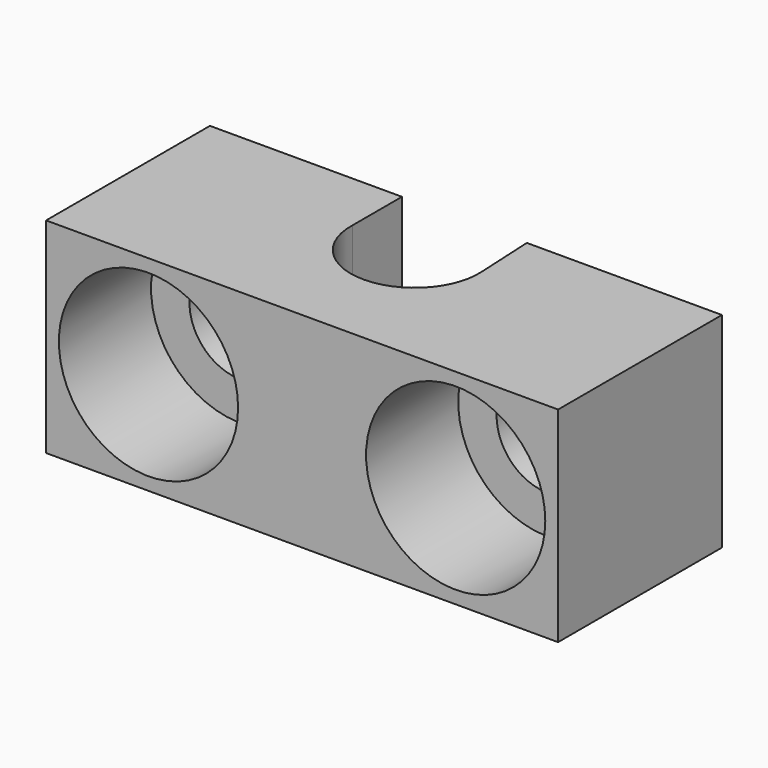
from build123d import *

# Parameters (mm, degrees)
F1_DEPTH = 8
F2_R     = 3.5
F3_DEPTH = 4.5
F4_R     = 2
F5_R     = 2
F6_DEPTH = 25


with BuildPart() as f1:
    # F0 (on Top) → F1 (new body)
    with BuildSketch(Plane.XY):
        with BuildLine():
            Line((-2.498805, 8), (-10, 8))
            Line((-10, 8), (-10, 0))
            Line((-10, 0), (10, 0))
            Line((10, 0), (10, 8))
            Line((10, 8), (2.379432, 8))
            Line((2.379432, 8), (2.496949, 5.623472))
            ThreePointArc((2.496949, 5.623472), (0.023112, 3.000107), (-2.498805, 5.577284))
            Line((-2.498805, 5.577284), (-2.498805, 8))
        make_face()
    extrude(amount=F1_DEPTH)

    # F2 (on face) → F3 (cut)
    with BuildSketch(Plane.XZ):
        with Locations((6, 4)):
            Circle(F2_R)
        with Locations((-6, 4)):
            Circle(F2_R)
    extrude(amount=-F3_DEPTH, mode=Mode.SUBTRACT)

    # F4 (on face) + F5 (on face) → F6 (cut)
    with BuildSketch(Plane.XZ.offset(-4.5)):
        with Locations((-6, 4)):
            Circle(F4_R)
    with BuildSketch(Plane.XZ.offset(-4.5)):
        with Locations((6, 4)):
            Circle(F5_R)
    extrude(amount=-F6_DEPTH, mode=Mode.SUBTRACT)


solid = f1.part
